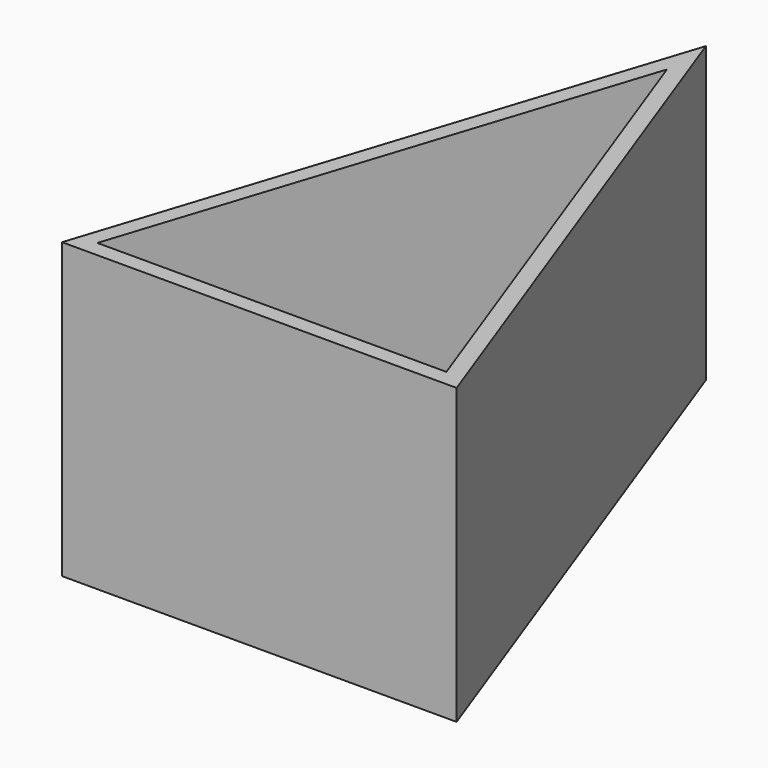
from build123d import *

# Parameters (mm, degrees)
F1_DEPTH = 36.83


with BuildPart() as f1:
    # F0 (on Top) → F1 (new body)
    with BuildSketch(Plane.XY):
        Polygon((26.076875, -28.768841), (-0.115304, 43.006679), (-23.342333, -28.768841), align=None)
        Polygon((-20.549016, -26.736841), (0, 36.763159), (23.172293, -26.736841), (0, -26.736841), align=None, mode=Mode.SUBTRACT)
    extrude(amount=F1_DEPTH)


solid = f1.part
